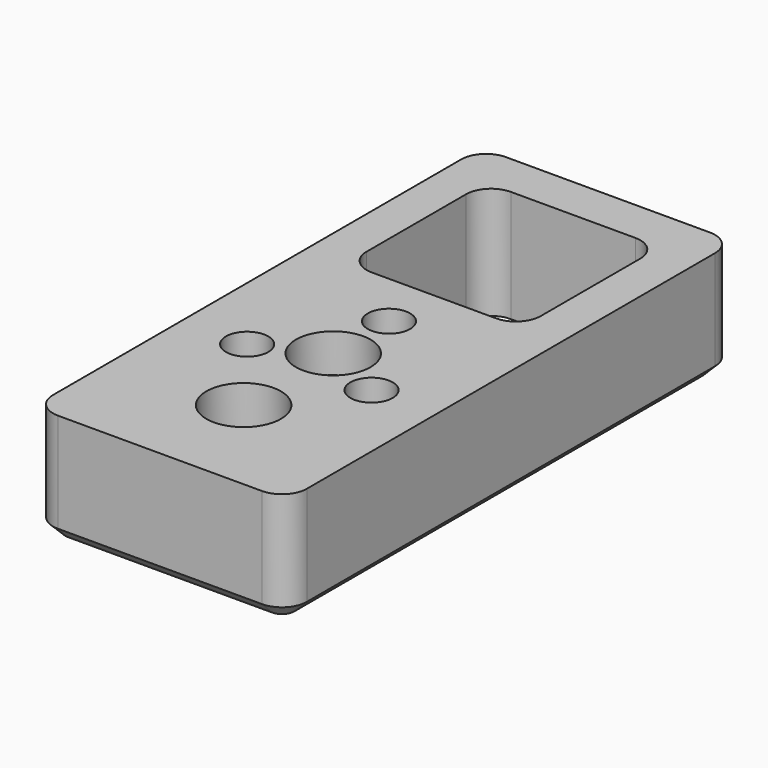
from build123d import *

# Parameters (mm, degrees)
CYLINDER008_R     = 1.7
CYLINDER008_DEPTH = 10
CYLINDER007_R     = 3
CYLINDER007_DEPTH = 10
CYLINDER006_R     = 3
CYLINDER006_DEPTH = 10
CYLINDER009_R     = 1.7
CYLINDER009_DEPTH = 10
CYLINDER004_R     = 2.35
CYLINDER004_DEPTH = 5.65
CYLINDER003_R     = 2.35
CYLINDER003_DEPTH = 5.65
CYLINDER002_R     = 1.7
CYLINDER002_DEPTH = 10
CYLINDER001_R     = 1.7
CYLINDER001_DEPTH = 10
CYLINDER_R        = 1.7
CYLINDER_DEPTH    = 10
CYLINDER005_R     = 2.35
CYLINDER005_DEPTH = 5.65
CHAMFER001_SIZE   = 0.6
BOX001_W          = 14
BOX001_H          = 14
BOX001_DEPTH      = 10
BOX_W             = 20.4
BOX_H             = 45
BOX_DEPTH         = 9
FILLET_R          = 2
FILLET001_R       = 2
CHAMFER_SIZE      = 1


with BuildPart() as cylinder008:
    # Cylinder008 → Cylinder008 (new body)
    with BuildSketch(Plane(origin=(0, 8.4, 0), x_dir=(1, 0, 0), z_dir=(0, 0, 1))):
        Circle(CYLINDER008_R)
    extrude(amount=CYLINDER008_DEPTH)


with BuildPart() as cylinder007:
    # Cylinder007 → Cylinder007 (new body)
    with BuildSketch(Plane(origin=(0, 17.4, 5.9), x_dir=(1, 0, 0), z_dir=(0, 0, 1))):
        Circle(CYLINDER007_R)
    extrude(amount=CYLINDER007_DEPTH)


with BuildPart() as cylinder006:
    # Cylinder006 → Cylinder006 (new body)
    with BuildSketch(Plane(origin=(0, 8.4, 5.9), x_dir=(1, 0, 0), z_dir=(0, 0, 1))):
        Circle(CYLINDER006_R)
    extrude(amount=CYLINDER006_DEPTH)


with BuildPart() as fusion001:
    # Cylinder009 → Cylinder009 (new body)
    with BuildSketch(Plane(origin=(0, 17.4, 0), x_dir=(1, 0, 0), z_dir=(0, 0, 1))):
        Circle(CYLINDER009_R)
    extrude(amount=CYLINDER009_DEPTH)

    # Fusion001: union Cylinder008, Cylinder007, Cylinder006
    add(cylinder008.part)
    add(cylinder007.part)
    add(cylinder006.part)


with BuildPart() as cylinder004:
    # Cylinder004 → Cylinder004 (new body)
    with BuildSketch(Plane(origin=(5, 15, 0), x_dir=(1, 0, 0), z_dir=(0, 0, 1))):
        Circle(CYLINDER004_R)
    extrude(amount=CYLINDER004_DEPTH)


with BuildPart() as cylinder003:
    # Cylinder003 → Cylinder003 (new body)
    with BuildSketch(Plane(origin=(-5, 15, 0), x_dir=(1, 0, 0), z_dir=(0, 0, 1))):
        Circle(CYLINDER003_R)
    extrude(amount=CYLINDER003_DEPTH)


with BuildPart() as cylinder002:
    # Cylinder002 → Cylinder002 (new body)
    with BuildSketch(Plane(origin=(-5, 15, 0), x_dir=(1, 0, 0), z_dir=(0, 0, 1))):
        Circle(CYLINDER002_R)
    extrude(amount=CYLINDER002_DEPTH)


with BuildPart() as cylinder001:
    # Cylinder001 → Cylinder001 (new body)
    with BuildSketch(Plane(origin=(5, 15, 0), x_dir=(1, 0, 0), z_dir=(0, 0, 1))):
        Circle(CYLINDER001_R)
    extrude(amount=CYLINDER001_DEPTH)


with BuildPart() as cylinder:
    # Cylinder → Cylinder (new body)
    with BuildSketch(Plane(origin=(0, 23, 0), x_dir=(1, 0, 0), z_dir=(0, 0, 1))):
        Circle(CYLINDER_R)
    extrude(amount=CYLINDER_DEPTH)


with BuildPart() as fusion002:
    # Cylinder005 → Cylinder005 (new body)
    with BuildSketch(Plane(origin=(0, 23, 0), x_dir=(1, 0, 0), z_dir=(0, 0, 1))):
        Circle(CYLINDER005_R)
    extrude(amount=CYLINDER005_DEPTH)

    # Fusion: union Cylinder004, Cylinder003, Cylinder002, Cylinder001, Cylinder
    add(cylinder004.part)
    add(cylinder003.part)
    add(cylinder002.part)
    add(cylinder001.part)
    add(cylinder.part)

    # Chamfer001
    chamfer001_edges = [fusion002.edges().sort_by_distance(p)[0] for p in [
        (-2.35, 23, 5.65),
        (2.65, 15, 5.65),
        (-7.35, 15, 5.65),
    ]]
    chamfer(chamfer001_edges, length=CHAMFER001_SIZE)

    # Fusion002: union Fusion001
    add(fusion001.part)


with BuildPart() as cube001:
    # Box001 → Box001 (new body)
    with BuildSketch(Plane(origin=(-7, 27.5, 0), x_dir=(1, 0, 0), z_dir=(0, 0, 1))):
        with Locations((7, 7)):
            Rectangle(BOX001_W, BOX001_H)
    extrude(amount=BOX001_DEPTH)


with BuildPart() as cut001:
    # Box → Box (new body)
    with BuildSketch(Plane(origin=(-10.2, 0, 0), x_dir=(1, 0, 0), z_dir=(0, 0, 1))):
        with Locations((10.2, 22.5)):
            Rectangle(BOX_W, BOX_H)
    extrude(amount=BOX_DEPTH)

    # Cut: cut Cube001
    add(cube001.part, mode=Mode.SUBTRACT)

    # Fillet
    fillet_edges = [cut001.edges().sort_by_distance(p)[0] for p in [
        (7, 27.5, 4.5),
        (-7, 27.5, 4.5),
        (7, 41.5, 4.5),
        (-7, 41.5, 4.5),
    ]]
    fillet(fillet_edges, radius=FILLET_R)

    # Fillet001
    fillet001_edges = [cut001.edges().sort_by_distance(p)[0] for p in [
        (-10.2, 0, 4.5),
        (-10.2, 45, 4.5),
        (10.2, 45, 4.5),
        (10.2, 0, 4.5),
    ]]
    fillet(fillet001_edges, radius=FILLET001_R)

    # Chamfer
    chamfer_edges = [cut001.edges().sort_by_distance(p)[0] for p in [
        (-10.2, 22.5, 0),
        (-9.614214, 0.585786, 0),
        (-9.614214, 44.414214, 0),
        (0, 0, 0),
        (0, 45, 0),
        (9.614214, 0.585786, 0),
        (9.614214, 44.414214, 0),
        (10.2, 22.5, 0),
    ]]
    chamfer(chamfer_edges, length=CHAMFER_SIZE)

    # Cut001: cut Fusion002
    add(fusion002.part, mode=Mode.SUBTRACT)


solid = cut001.part
